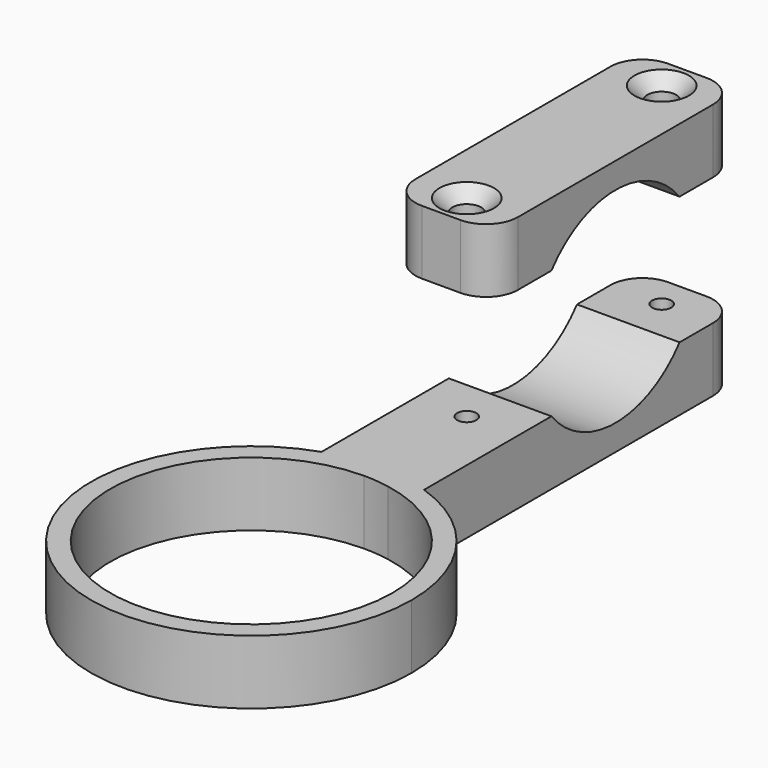
from build123d import *

# Parameters (mm, degrees)
F1_DEPTH      = 10
F0_W          = 8
F0_H          = 2
F2_DEPTH      = 10
F3_START      = 30
F3_DEPTH      = 10
F4_R          = 16
F5_DEPTH      = 25
F5_DEPTH_BACK = 25
F6_DEPTH      = 25
F6_DEPTH_BACK = 25
F7_SIZE       = 2
F8_R          = 5
F8_2_R        = 5


with BuildPart() as f1:
    # F0 (on Top) → F1 (new body)
    with BuildSketch(Plane.XY):
        with BuildLine():
            Line((-8, 10), (-8, -1.3145614353))
            ThreePointArc((-8, -1.3145614353), (-4.0536425523, -0.3308293196), (0, 0))
            Line((0, 0), (0, 10))
            Line((0, 10), (-8, 10))
        make_face()
        with BuildLine():
            ThreePointArc((4, -0.3220746415), (6.0204864844, -0.7357517633), (8, -1.3145614353))
            Line((8, -1.3145614353), (8, 10))
            Line((8, 10), (4, 10))
            Line((4, 10), (4, -0.3220746415))
        make_face()
        with BuildLine():
            ThreePointArc((-8, -1.3145614353), (-14.5773797371, -45.3100960116), (25, -25))
            ThreePointArc((25, -25), (20.3100960116, -10.4226202629), (8, -1.3145614353))
            ThreePointArc((8, -1.3145614353), (6.0204864844, -0.7357517633), (4, -0.3220746415))
            Line((4, -0.3220746415), (4, -3.3666923472))
            ThreePointArc((4, -3.3666923472), (16.9115345253, -10.9287527205), (22, -25))
            ThreePointArc((22, -25), (-15.5563491861, -40.5563491861), (0, -3))
            Line((0, -3), (0, 0))
            ThreePointArc((0, 0), (-4.0536425523, -0.3308293196), (-8, -1.3145614353))
        make_face()
        with BuildLine():
            ThreePointArc((0, 0), (2.0064727804, -0.0806487448), (4, -0.3220746415))
            Line((4, -0.3220746415), (4, 10))
            Line((4, 10), (8, 10))
            Line((8, 10), (8, 12))
            Line((8, 12), (0, 12))
            Line((0, 12), (0, 10))
            Line((0, 10), (0, 0))
        make_face()
        with BuildLine():
            Line((4, -3.3666923472), (4, -0.3220746415))
            ThreePointArc((4, -0.3220746415), (2.0064727804, -0.0806487448), (0, 0))
            Line((0, 0), (0, -3))
            ThreePointArc((0, -3), (2.008386372, -3.0918648858), (4, -3.3666923472))
        make_face()
    extrude(amount=F1_DEPTH)

    # F0 (on Top) → F2 (join)
    with BuildSketch(Plane.XY):
        with BuildLine():
            Line((2.25, 55), (8, 55))
            Line((8, 55), (8, 60))
            Line((8, 60), (-8, 60))
            Line((-8, 60), (-8, 55))
            Line((-8, 55), (-2.25, 55))
            ThreePointArc((-2.25, 55), (0, 57.25), (2.25, 55))
        make_face()
        with BuildLine():
            Line((2.25, 17), (8, 17))
            Line((8, 17), (8, 55))
            Line((8, 55), (2.25, 55))
            ThreePointArc((2.25, 55), (0, 52.75), (-2.25, 55))
            Line((-2.25, 55), (-8, 55))
            Line((-8, 55), (-8, 17))
            Line((-8, 17), (-2.25, 17))
            ThreePointArc((-2.25, 17), (0, 19.25), (2.25, 17))
        make_face()
        with BuildLine():
            Line((1.5, 17), (2.25, 17))
            ThreePointArc((2.25, 17), (0, 19.25), (-2.25, 17))
            Line((-2.25, 17), (-1.5, 17))
            ThreePointArc((-1.5, 17), (0, 18.5), (1.5, 17))
        make_face()
        with BuildLine():
            Line((0, 12), (8, 12))
            Line((8, 12), (8, 17))
            Line((8, 17), (2.25, 17))
            ThreePointArc((2.25, 17), (0, 14.75), (-2.25, 17))
            Line((-2.25, 17), (-8, 17))
            Line((-8, 17), (-8, 12))
            Line((-8, 12), (0, 12))
        make_face()
        with BuildLine():
            ThreePointArc((-2.25, 17), (0, 14.75), (2.25, 17))
            Line((2.25, 17), (1.5, 17))
            ThreePointArc((1.5, 17), (0, 15.5), (-1.5, 17))
            Line((-1.5, 17), (-2.25, 17))
        make_face()
        with Locations((-4, 11)):
            Rectangle(F0_W, F0_H)
        with BuildLine():
            ThreePointArc((-2.25, 55), (0, 52.75), (2.25, 55))
            Line((2.25, 55), (1.5, 55))
            ThreePointArc((1.5, 55), (0, 53.5), (-1.5, 55))
            Line((-1.5, 55), (-2.25, 55))
        make_face()
        with BuildLine():
            Line((1.5, 55), (2.25, 55))
            ThreePointArc((2.25, 55), (0, 57.25), (-2.25, 55))
            Line((-2.25, 55), (-1.5, 55))
            ThreePointArc((-1.5, 55), (0, 56.5), (1.5, 55))
        make_face()
        with BuildLine():
            Line((2.25, 17), (8, 17))
            Line((8, 17), (8, 55))
            Line((8, 55), (2.25, 55))
            ThreePointArc((2.25, 55), (0, 52.75), (-2.25, 55))
            Line((-2.25, 55), (-8, 55))
            Line((-8, 55), (-8, 17))
            Line((-8, 17), (-2.25, 17))
            ThreePointArc((-2.25, 17), (0, 19.25), (2.25, 17))
        make_face()
        with BuildLine():
            Line((0, 12), (8, 12))
            Line((8, 12), (8, 17))
            Line((8, 17), (2.25, 17))
            ThreePointArc((2.25, 17), (0, 14.75), (-2.25, 17))
            Line((-2.25, 17), (-8, 17))
            Line((-8, 17), (-8, 12))
            Line((-8, 12), (0, 12))
        make_face()
    extrude(amount=F2_DEPTH)


with BuildPart() as f3:
    # F0 (on Top) → F3 (new body)
    with BuildSketch(Plane.XY.offset(F3_START)):
        with BuildLine():
            Line((0, 12), (8, 12))
            Line((8, 12), (8, 17))
            Line((8, 17), (2.25, 17))
            ThreePointArc((2.25, 17), (0, 14.75), (-2.25, 17))
            Line((-2.25, 17), (-8, 17))
            Line((-8, 17), (-8, 12))
            Line((-8, 12), (0, 12))
        make_face()
        with BuildLine():
            Line((2.25, 17), (8, 17))
            Line((8, 17), (8, 55))
            Line((8, 55), (2.25, 55))
            ThreePointArc((2.25, 55), (0, 52.75), (-2.25, 55))
            Line((-2.25, 55), (-8, 55))
            Line((-8, 55), (-8, 17))
            Line((-8, 17), (-2.25, 17))
            ThreePointArc((-2.25, 17), (0, 19.25), (2.25, 17))
        make_face()
        with BuildLine():
            Line((2.25, 55), (8, 55))
            Line((8, 55), (8, 60))
            Line((8, 60), (-8, 60))
            Line((-8, 60), (-8, 55))
            Line((-8, 55), (-2.25, 55))
            ThreePointArc((-2.25, 55), (0, 57.25), (2.25, 55))
        make_face()
    extrude(amount=F3_DEPTH)


with BuildPart() as f5_tool:
    # F4 (on Right) → F5 (new body, two sides)
    with BuildSketch(Plane.YZ) as f5_sk:
        with Locations((36, 20)):
            Circle(F4_R)
    extrude(amount=-F5_DEPTH)
    extrude(f5_sk.sketch, amount=F5_DEPTH_BACK)


with BuildPart() as f1_1:
    add(f1.part)

    # F5: cut by f5_tool
    add(f5_tool.part, mode=Mode.SUBTRACT)

    # F4 (on Right) → F6 (cut, two sides)
    with BuildSketch(Plane.YZ) as f6_sk:
        with Locations((36, 20)):
            Circle(F4_R)
    extrude(amount=F6_DEPTH, mode=Mode.SUBTRACT)
    extrude(f6_sk.sketch, amount=-F6_DEPTH_BACK, mode=Mode.SUBTRACT)

    # F8#2
    f8_2_edges = [f1_1.edges().sort_by_distance(p)[0] for p in [
        (-8, 60, 5),
        (8, 60, 5),
    ]]
    fillet(f8_2_edges, radius=F8_2_R)


with BuildPart() as f3_1:
    add(f3.part)

    # F5: cut by f5_tool
    add(f5_tool.part, mode=Mode.SUBTRACT)

    # F7
    f7_edges = [f3_1.edges().sort_by_distance(p)[0] for p in [
        (2.25, 17, 40),
        (2.25, 55, 40),
    ]]
    chamfer(f7_edges, length=F7_SIZE)

    # F8
    f8_edges = [f3_1.edges().sort_by_distance(p)[0] for p in [
        (8, 12, 35),
        (-8, 12, 35),
        (-8, 60, 35),
        (8, 60, 35),
    ]]
    fillet(f8_edges, radius=F8_R)


solid = Compound([f1_1.part, f3_1.part])
